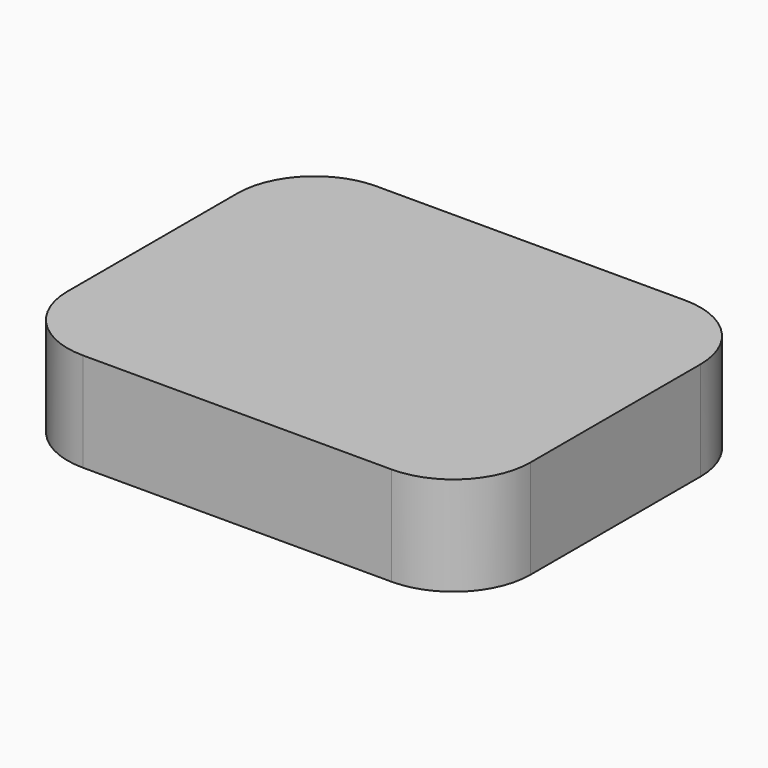
from build123d import *

# Parameters (mm, degrees)
F1_DEPTH = 10.25


with BuildPart() as f1:
    # F0 (on Top) → F1 (new body)
    with BuildSketch(Plane.XY):
        with BuildLine():
            Line((-8.9035464376, 19), (-16, 19))
            ThreePointArc((-16, 19), (-21.6568542495, 16.6568542495), (-24, 11))
            Line((-24, 11), (-24, -11))
            ThreePointArc((-24, -11), (-21.6568542495, -16.6568542495), (-16, -19))
            Line((-16, -19), (-8.9035464376, -19))
            Line((-8.9035464376, -19), (-8.9035464376, 19))
        make_face()
        with BuildLine():
            Line((16, 19), (-8.9035464376, 19))
            Line((-8.9035464376, 19), (-8.9035464376, -19))
            Line((-8.9035464376, -19), (16, -19))
            ThreePointArc((16, -19), (21.6568542495, -16.6568542495), (24, -11))
            Line((24, -11), (24, 11))
            ThreePointArc((24, 11), (21.6568542495, 16.6568542495), (16, 19))
        make_face()
    extrude(amount=F1_DEPTH)


solid = f1.part
